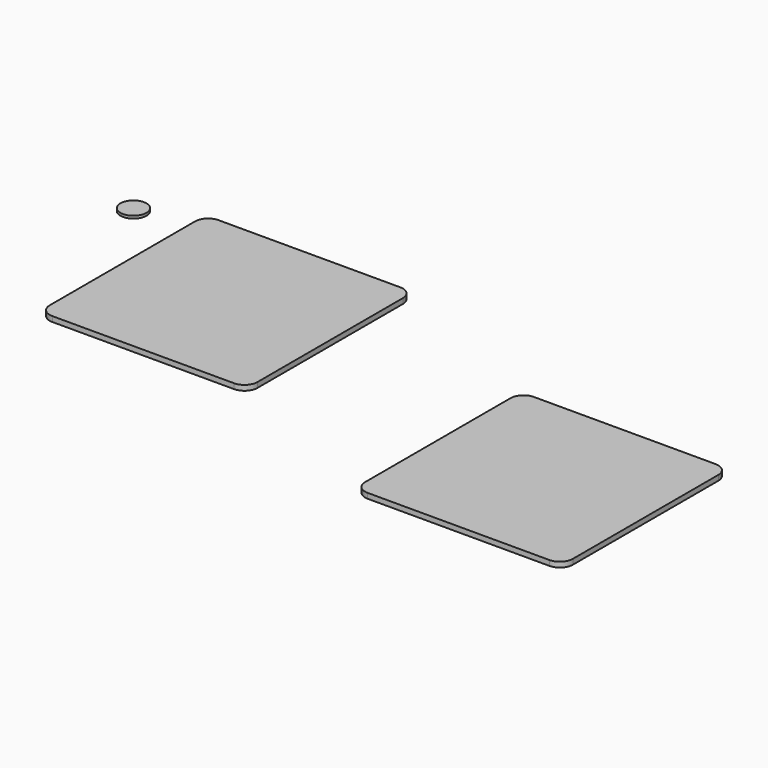
from build123d import *

# Parameters (mm, degrees)
F1_DEPTH = 2.54
F2_R     = 6.35
F3_DEPTH = 1.27
F5_DEPTH = 2.54


with BuildPart() as f1:
    # F0 (on Top) → F1 (new body)
    with BuildSketch(Plane.XY):
        with BuildLine():
            ThreePointArc((-45.72, -32.126745), (-43.860128, -36.616873), (-39.37, -38.476745))
            Line((-39.37, -38.476745), (49.53, -38.476745))
            ThreePointArc((49.53, -38.476745), (54.020128, -36.616873), (55.88, -32.126745))
            Line((55.88, -32.126745), (55.88, 56.773255))
            ThreePointArc((55.88, 56.773255), (54.020128, 61.263383), (49.53, 63.123255))
            Line((49.53, 63.123255), (-39.37, 63.123255))
            ThreePointArc((-39.37, 63.123255), (-43.860128, 61.263383), (-45.72, 56.773255))
            Line((-45.72, 56.773255), (-45.72, -32.126745))
        make_face()
    extrude(amount=F1_DEPTH)


with BuildPart() as f3:
    # F2 (on Top) → F3 (new body)
    with BuildSketch(Plane.XY):
        with Locations((-72.505452, 52.53182)):
            Circle(F2_R)
    extrude(amount=F3_DEPTH)


with BuildPart() as f5:
    # F4 (on Top) → F5 (new body)
    with BuildSketch(Plane.XY):
        with BuildLine():
            Line((234.91706, 24.189552), (146.01706, 24.189552))
            ThreePointArc((146.01706, 24.189552), (141.526932, 22.32968), (139.66706, 17.839552))
            Line((139.66706, 17.839552), (139.66706, -71.060448))
            ThreePointArc((139.66706, -71.060448), (141.526932, -75.550576), (146.01706, -77.410448))
            Line((146.01706, -77.410448), (234.91706, -77.410448))
            ThreePointArc((234.91706, -77.410448), (239.407188, -75.550576), (241.26706, -71.060448))
            Line((241.26706, -71.060448), (241.26706, 17.839552))
            ThreePointArc((241.26706, 17.839552), (239.407188, 22.32968), (234.91706, 24.189552))
        make_face()
    extrude(amount=F5_DEPTH)


solid = Compound([f1.part, f3.part, f5.part])
